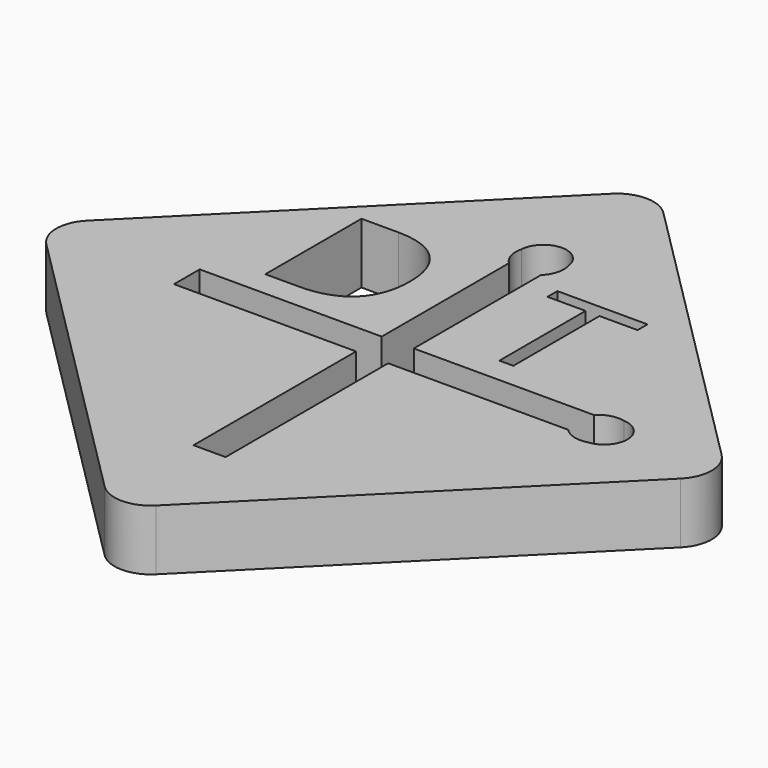
from build123d import *

# Parameters (mm, degrees)
F1_DEPTH = 2.5
F2_R     = 0.85
F3_DEPTH = 12.5


with BuildPart() as f1:
    # F0 (on Top) → F1 (new body)
    with BuildSketch(Plane.XY):
        with BuildLine():
            Line((13.081475452, -13.081475452), (1.0606601718, -1.0606601718))
            ThreePointArc((1.0606601718, -1.0606601718), (0, -0.6213203436), (-1.0606601718, -1.0606601718))
            Line((-1.0606601718, -1.0606601718), (-13.081475452, -13.081475452))
            ThreePointArc((-13.081475452, -13.081475452), (-13.5208152802, -14.1421356237), (-13.081475452, -15.2027957955))
            Line((-13.081475452, -15.2027957955), (-1.0606601718, -27.2236110757))
            ThreePointArc((-1.0606601718, -27.2236110757), (0, -27.6629509039), (1.0606601718, -27.2236110757))
            Line((1.0606601718, -27.2236110757), (13.081475452, -15.2027957955))
            ThreePointArc((13.081475452, -15.2027957955), (13.5208152802, -14.1421356237), (13.081475452, -13.081475452))
        make_face()
        with BuildLine():
            add(Edge.make_bspline(
                [(-2.95422167, -8.1059920208), (-2.3134881631, -8.7467255278), (-2.3134881631, -9.8968991389)],
                knots=[0, 0, 0, 1, 1, 1], degree=2))
            add(Edge.make_bspline(
                [(-2.3134881631, -9.8968991389), (-2.3134881631, -11.1241126806), (-2.9797208019, -11.7735267431)],
                knots=[0, 0, 0, 1, 1, 1], degree=2))
            add(Edge.make_bspline(
                [(-2.9797208019, -11.7735267431), (-3.6459534408, -12.4229408056), (-4.8970385103, -12.4229408056)],
                knots=[0, 0, 0, 1, 1, 1], degree=2))
            Line((-4.8970385103, -12.4229408056), (-6.2707364269, -12.4229408056))
            Line((-6.2707364269, -12.4229408056), (-6.2707364269, -7.4652585139))
            Line((-6.2707364269, -7.4652585139), (-4.7516392047, -7.4652585139))
            add(Edge.make_bspline(
                [(-4.7516392047, -7.4652585139), (-3.5949551769, -7.4652585139), (-2.95422167, -8.1059920208)],
                knots=[0, 0, 0, 1, 1, 1], degree=2))
        make_face(mode=Mode.SUBTRACT)
        with BuildLine():
            Line((-8.1334756687, -14.8039748892), (-8.1334756687, -13.4802963582))
            Line((-8.1334756687, -13.4802963582), (-0.6236797201, -13.4802963582))
            Line((-0.6236797201, -13.4802963582), (-0.6236797201, -6.9198086858))
            ThreePointArc((-0.6236797201, -6.9198086858), (-0.9032194318, -6.4583786209), (-0.9135835525, -5.9189782686))
            ThreePointArc((-0.9135835525, -5.9189782686), (0.0168397474, -5.0141534426), (0.9868078824, -5.876451129))
            ThreePointArc((0.9868078824, -5.876451129), (0.9900106564, -6.4384308628), (0.6999988109, -6.9198086858))
            Line((0.6999988109, -6.9198086858), (0.6999988109, -13.4802963582))
            Line((0.6999988109, -13.4802963582), (8.1334756687, -13.4802963582))
            ThreePointArc((8.1334756687, -13.4802963582), (8.5949057336, -13.2007566465), (9.134306086, -13.1903925258))
            ThreePointArc((9.134306086, -13.1903925258), (10.0391309119, -14.1208158258), (9.1768332255, -15.0907839607))
            ThreePointArc((9.1768332255, -15.0907839607), (8.6148534917, -15.0939867347), (8.1334756687, -14.8039748892))
            Line((8.1334756687, -14.8039748892), (0.6999988109, -14.8039748892))
            Line((0.6999988109, -14.8039748892), (0.6999988109, -23.1867600232))
            Line((0.6999988109, -23.1867600232), (-0.6236797201, -23.1867600232))
            Line((-0.6236797201, -23.1867600232), (-0.6236797201, -14.8039748892))
            Line((-0.6236797201, -14.8039748892), (-8.1334756687, -14.8039748892))
        make_face(mode=Mode.SUBTRACT)
        Polygon((3.9598674141, -7.9774117573), (3.9598674141, -12.4229412712), (3.3836955391, -12.4229412712), (3.3836955391, -7.9774117573), (1.813600053, -7.9774117573), (1.813600053, -7.4652589795), (5.5299629002, -7.4652589795), (5.5299629002, -7.9774117573), align=None, mode=Mode.SUBTRACT)
    extrude(amount=F1_DEPTH)

    # F2 (on Right) → F3 (cut, symmetric)
    with BuildSketch(Plane.YZ):
        with Locations((-2.4908210296, 1.292226194)):
            Circle(F2_R)
    extrude(amount=F3_DEPTH, both=True, mode=Mode.SUBTRACT)


solid = f1.part
